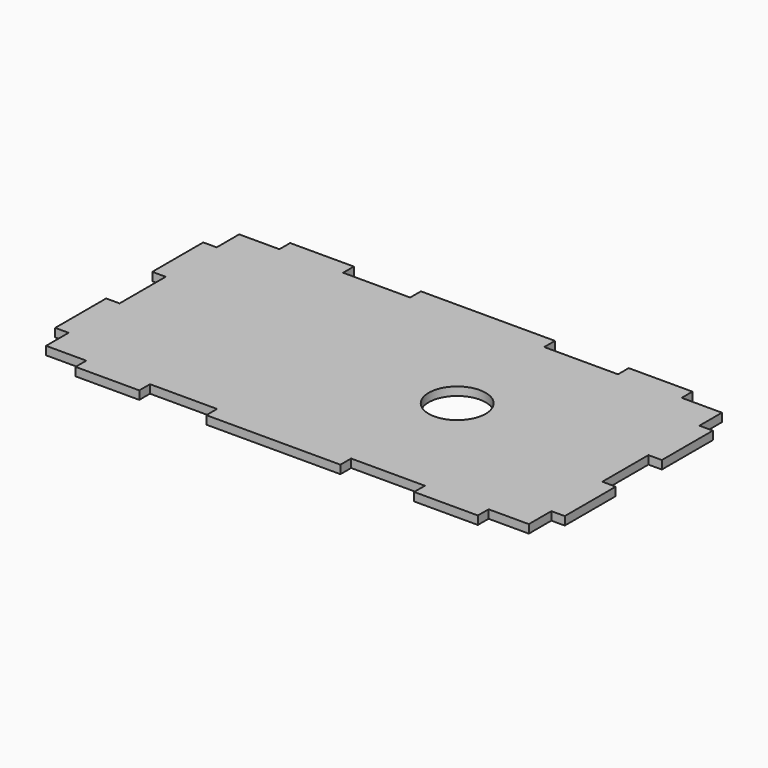
from build123d import *

# Parameters (mm, degrees)
F0_W     = 19
F0_H     = 4
F0_W_2   = 40
F0_W_3   = 4
F0_H_2   = 19
F0_R     = 8.5
F1_DEPTH = 2.5


with BuildPart() as f1:
    # F0 (on Top) → F1 (new body)
    with BuildSketch(Plane.XY):
        with Locations((-50.5, 38)):
            Rectangle(F0_W, F0_H)
        with Locations((-1, 38)):
            Rectangle(F0_W_2, F0_H)
        with Locations((50.5, 38)):
            Rectangle(F0_W, F0_H)
        with Locations((-50.5, -38)):
            Rectangle(F0_W, F0_H)
        with Locations((-1, -38)):
            Rectangle(F0_W_2, F0_H)
        with Locations((50.5, -38)):
            Rectangle(F0_W, F0_H)
        with Locations((-74, 18.1)):
            Rectangle(F0_W_3, F0_H_2)
        with Locations((-74, -18.1)):
            Rectangle(F0_W_3, F0_H_2)
        with Locations((74, 18.1)):
            Rectangle(F0_W_3, F0_H_2)
        with Locations((74, -18.1)):
            Rectangle(F0_W_3, F0_H_2)
        Polygon((-60, 36), (-72, 36), (-72, 27.6), (-72, 8.6), (-72, -8.6), (-72, -27.6), (-72, -36), (-60, -36), (-41, -36), (-21, -36), (19, -36), (41, -36), (60, -36), (72, -36), (72, -27.6), (72, -8.6), (72, 8.6), (72, 27.6), (72, 36), (60, 36), (41, 36), (19, 36), (-21, 36), (-41, 36), align=None)
        with Locations((20.89, 1.18)):
            Circle(F0_R, mode=Mode.SUBTRACT)
    extrude(amount=F1_DEPTH)


solid = f1.part
